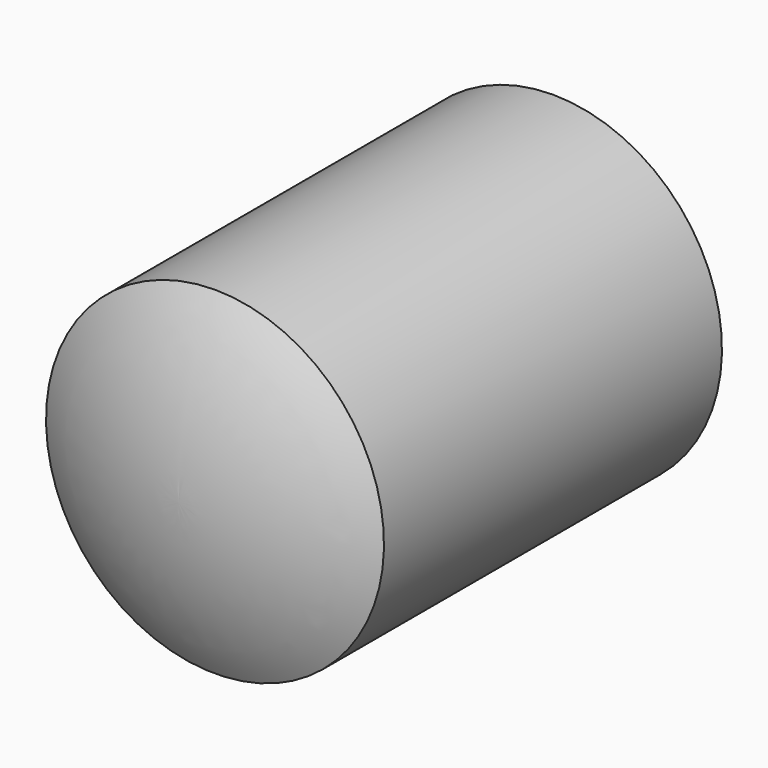
from build123d import *


with BuildPart() as part:
    # Sketch → Revolution (revolve)
    with BuildSketch(Plane.YZ):
        with BuildLine():
            ThreePointArc((11.071797, 0), (10.799203, 2.070552), (10, 4))
            Line((0, 4), (10, 4))
            ThreePointArc((0, 4), (-0.799203, 2.070552), (-1.071797, 0))
            Line((-1.071797, 0), (11.071797, 0))
        make_face()
    revolve(axis=Axis((0, 0, 0), (0, 1, 0)))


solid = part.part
